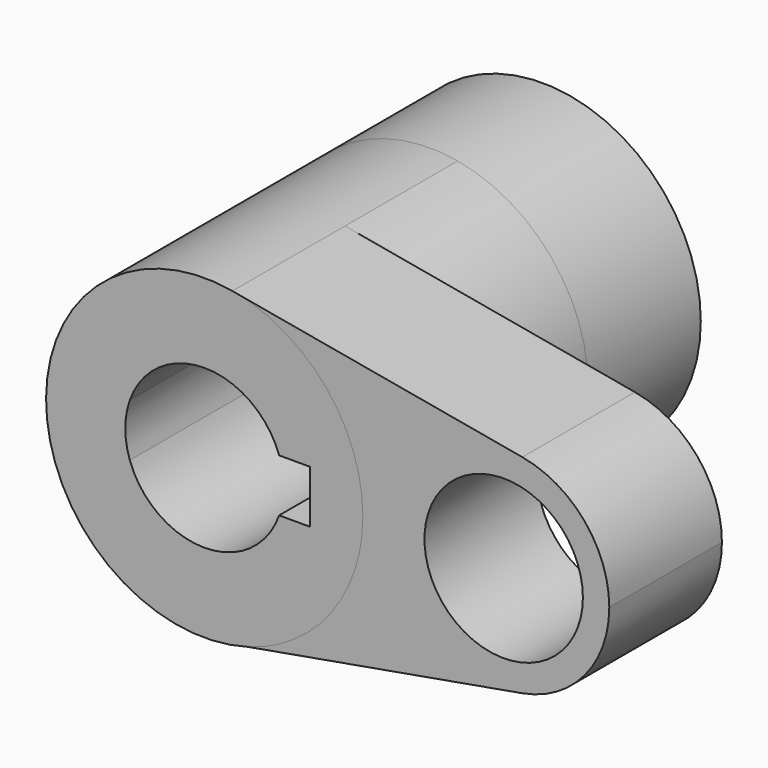
from build123d import *

# Parameters (mm, degrees)
F1_DEPTH  = 50.8
F1_FACE_R = 28.575
F0_R      = 14.2875
F2_DEPTH  = 25.4


with BuildPart() as f1:
    # F0 (on Front) → F1 (new body)
    with BuildSketch(Plane.XZ):
        with BuildLine():
            ThreePointArc((7.8288779685, -27.481617397), (22.8061484358, -17.2165681402), (28.575, 0))
            ThreePointArc((28.575, 0), (21.9160245563, 18.3362616868), (5.0426470588, 28.1265414802))
            ThreePointArc((5.0426470588, 28.1265414802), (-28.5391988774, -1.4299484043), (7.8288779685, -27.481617397))
        make_face()
        with BuildLine():
            ThreePointArc((-13.4703841816, 4.7625), (0, 14.2875), (13.4703841816, 4.7625))
            Line((13.4703841816, 4.7625), (19.05, 4.7625))
            Line((19.05, 4.7625), (19.05, -4.7625))
            Line((19.05, -4.7625), (13.4703841816, -4.7625))
            ThreePointArc((13.4703841816, -4.7625), (0, -14.2875), (-13.4703841816, -4.7625))
            Line((-13.4703841816, -4.7625), (-19.05, -4.7625))
            Line((-19.05, -4.7625), (-19.05, 4.7625))
            Line((-19.05, 4.7625), (-13.4703841816, 4.7625))
        make_face(mode=Mode.SUBTRACT)
        with BuildLine():
            ThreePointArc((-13.4703841816, -4.7625), (-14.2875, 0), (-13.4703841816, 4.7625))
            Line((-13.4703841816, 4.7625), (-19.05, 4.7625))
            Line((-19.05, 4.7625), (-19.05, -4.7625))
            Line((-19.05, -4.7625), (-13.4703841816, -4.7625))
        make_face()
    extrude(amount=-F1_DEPTH)

    # F1_face (on face) + F0 (on Front) → F2 (join)
    with BuildSketch(Plane(origin=(-0.4222586929, 50.8, 0), x_dir=(1, 0, 0), z_dir=(0, 1, 0))):
        with Locations((0.4222586929, 0)):
            Circle(F1_FACE_R)
        with BuildLine():
            Line((19.4722586929, -4.7625), (13.8926428745, -4.7625))
            ThreePointArc((13.8926428745, -4.7625), (-13.8652413071, 0), (13.8926428745, 4.7625))
            Line((13.8926428745, 4.7625), (19.4722586929, 4.7625))
            Line((19.4722586929, 4.7625), (19.4722586929, -4.7625))
        make_face(mode=Mode.SUBTRACT)
    with BuildSketch(Plane.XZ):
        with BuildLine():
            ThreePointArc((73.025, 0), (68.5856830375, 12.2241744579), (57.3367647059, 18.7510276535))
            ThreePointArc((57.3367647059, 18.7510276535), (34.9250193195, 0.0271306318), (57.2833414401, -18.7605270959))
            ThreePointArc((57.2833414401, -18.7605270959), (68.5682587936, -12.2449703055), (73.025, 0))
        make_face()
        with Locations((53.975, 0)):
            Circle(F0_R, mode=Mode.SUBTRACT)
        with BuildLine():
            ThreePointArc((5.0426470588, 28.1265414802), (21.9160245563, 18.3362616868), (28.575, 0))
            ThreePointArc((28.575, 0), (22.8061484358, -17.2165681402), (7.8288779685, -27.481617397))
            Line((7.8288779685, -27.481617397), (57.2833414401, -18.7605270959))
            ThreePointArc((57.2833414401, -18.7605270959), (34.9250193195, 0.0271306318), (57.3367647059, 18.7510276535))
            Line((57.3367647059, 18.7510276535), (5.0426470588, 28.1265414802))
        make_face()
    extrude(amount=F2_DEPTH, dir=(0, 1, 0))


solid = f1.part
